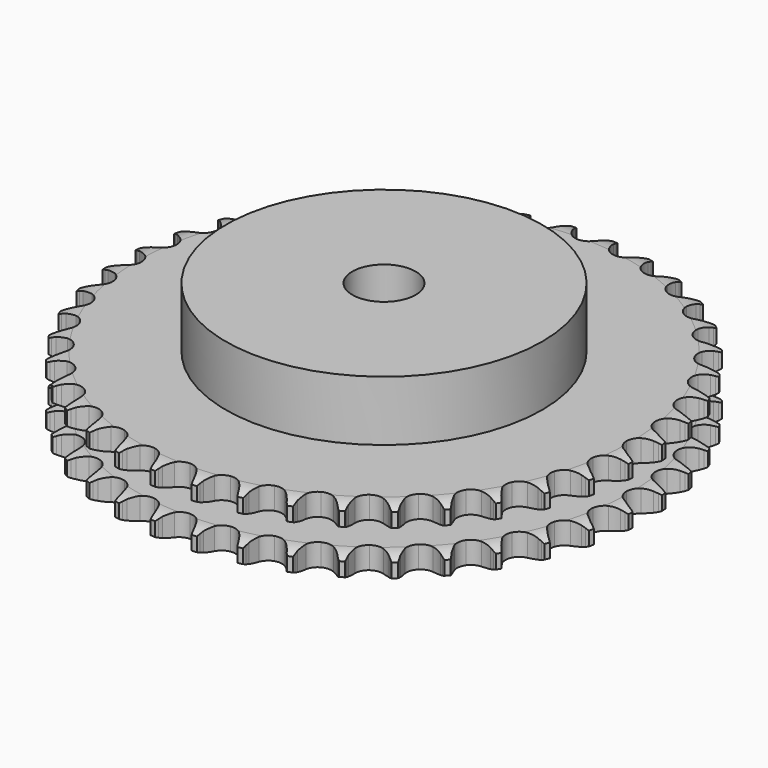
from build123d import *

# Parameters (mm, degrees)
PAD_DEPTH         = 21
SKETCH001_R       = 50
PAD001_DEPTH      = 40
SKETCH002_R       = 10
POCKET_DEPTH      = 0.001
POCKET_DEPTH_BACK = 40.001


with BuildPart() as part:
    # Sprocket → Pad (new body)
    with BuildSketch(Plane.XY):
        with BuildLine():
            ThreePointArc((-6.649012, 84.48371), (-5.927726, 83.470306), (-5.400458, 82.343705))
            Line((-5.400458, 82.343705), (-4.98558, 81.197617))
            ThreePointArc((-4.98558, 81.197617), (-4.32953, 79.727559), (-3.46814, 78.367604))
            ThreePointArc((-3.46814, 78.367604), (-1.941893, 77.081246), (0, 76.619517))
            ThreePointArc((0, 76.619517), (1.941893, 77.081246), (3.46814, 78.367604))
            ThreePointArc((3.46814, 78.367604), (4.32953, 79.727559), (4.98558, 81.197617))
            Line((4.98558, 81.197617), (5.400458, 82.343705))
            ThreePointArc((5.400458, 82.343705), (5.927726, 83.470306), (6.649012, 84.48371))
            ThreePointArc((6.649012, 84.48371), (7.202887, 83.369949), (7.547424, 82.174735))
            Line((7.547424, 82.174735), (7.777907, 80.977856))
            ThreePointArc((7.777907, 80.977856), (8.195912, 79.423268), (8.833953, 77.945305))
            ThreePointArc((8.833953, 77.945305), (10.140178, 76.436027), (11.985933, 75.676204))
            ThreePointArc((11.985933, 75.676204), (13.976149, 75.828469), (15.684836, 76.860232))
            Line((15.684836, 76.860232), (17.626305, 79.418023))
            ThreePointArc((17.626305, 79.418023), (17.906205, 79.959636), (18.215363, 80.4851))
            ThreePointArc((18.215363, 80.4851), (18.912379, 81.515347), (19.783316, 82.403441))
            ThreePointArc((19.783316, 82.403441), (20.15614, 81.216746), (20.309464, 79.98235))
            Line((20.309464, 79.98235), (20.349875, 78.764151))
            ThreePointArc((20.349875, 78.764151), (20.519543, 77.163313), (20.918524, 75.603734))
            ThreePointArc((20.918524, 75.603734), (21.972565, 73.9087), (23.676733, 72.869491))
            ThreePointArc((23.676733, 72.869491), (25.666265, 72.708543), (27.515318, 73.460306))
            Line((27.515318, 73.460306), (29.833012, 75.682894))
            ThreePointArc((29.833012, 75.682894), (30.194193, 76.174053), (30.581745, 76.644684))
            ThreePointArc((30.581745, 76.644684), (31.431346, 77.55321), (32.430489, 78.294125))
            ThreePointArc((32.430489, 78.294125), (32.613083, 77.063719), (32.571417, 75.820535))
            Line((32.571417, 75.820535), (32.420763, 74.611012))
            ThreePointArc((32.420763, 74.611012), (32.337915, 73.003341), (32.488012, 71.400549))
            ThreePointArc((32.488012, 71.400549), (33.263914, 69.561494), (34.784533, 68.26849))
            ThreePointArc((34.784533, 68.26849), (36.724393, 67.798292), (38.668283, 68.251544))
            Line((38.668283, 68.251544), (41.305131, 70.084201))
            ThreePointArc((41.305131, 70.084201), (41.7387, 70.512812), (42.195103, 70.917022))
            ThreePointArc((42.195103, 70.917022), (43.176369, 71.681456), (44.279115, 72.256949))
            ThreePointArc((44.279115, 72.256949), (44.266984, 71.013126), (44.031353, 69.791766))
            Line((44.031353, 69.791766), (43.693343, 68.620702))
            ThreePointArc((43.693343, 68.620702), (43.36002, 67.045784), (43.257538, 65.439245))
            ThreePointArc((43.257538, 65.439245), (43.736195, 63.501454), (45.035822, 61.986492))
            ThreePointArc((45.035822, 61.986492), (46.878245, 61.218622), (48.869106, 61.362202))
            Line((48.869106, 61.362202), (51.76018, 62.759802))
            ThreePointArc((51.76018, 62.759802), (52.255461, 63.115311), (52.769478, 63.443147))
            ThreePointArc((52.769478, 63.443147), (53.858246, 64.044666), (55.037443, 64.440566))
            ThreePointArc((55.037443, 64.440566), (54.830884, 63.213955), (54.407092, 62.044493))
            Line((54.407092, 62.044493), (53.890048, 60.940723))
            ThreePointArc((53.890048, 60.940723), (53.314458, 59.437338), (52.961919, 57.866609))
            ThreePointArc((52.961919, 57.866609), (53.131546, 55.877798), (54.17818, 54.17818))
            ThreePointArc((54.17818, 54.17818), (55.877798, 53.131546), (57.866609, 52.961919))
            Line((57.866609, 52.961919), (60.940723, 53.890048))
            ThreePointArc((60.940723, 53.890048), (61.48552, 54.163701), (62.044493, 54.407092))
            ThreePointArc((62.044493, 54.407092), (63.213955, 54.830884), (64.440566, 55.037443))
            ThreePointArc((64.440566, 55.037443), (64.044666, 53.858246), (63.443147, 52.769478))
            Line((63.443147, 52.769478), (62.759802, 51.76018))
            ThreePointArc((62.759802, 51.76018), (61.956116, 50.365347), (61.362202, 48.869106))
            ThreePointArc((61.362202, 48.869106), (61.218622, 46.878245), (61.986492, 45.035822))
            ThreePointArc((61.986492, 45.035822), (63.501454, 43.736195), (65.439245, 43.257538))
            Line((65.439245, 43.257538), (68.620702, 43.693343))
            ThreePointArc((68.620702, 43.693343), (69.2016, 43.878402), (69.791766, 44.031353))
            ThreePointArc((69.791766, 44.031353), (71.013126, 44.266984), (72.256949, 44.279115))
            ThreePointArc((72.256949, 44.279115), (71.681456, 43.176369), (70.917022, 42.195103))
            Line((70.917022, 42.195103), (70.084201, 41.305131))
            ThreePointArc((70.084201, 41.305131), (69.07221, 40.053194), (68.251544, 38.668283))
            ThreePointArc((68.251544, 38.668283), (67.798292, 36.724393), (68.26849, 34.784533))
            ThreePointArc((68.26849, 34.784533), (69.561494, 33.263914), (71.400549, 32.488012))
            Line((71.400549, 32.488012), (74.611012, 32.420763))
            ThreePointArc((74.611012, 32.420763), (75.213708, 32.512671), (75.820535, 32.571417))
            ThreePointArc((75.820535, 32.571417), (77.063719, 32.613083), (78.294125, 32.430489))
            ThreePointArc((78.294125, 32.430489), (77.55321, 31.431346), (76.644684, 30.581745))
            Line((76.644684, 30.581745), (75.682894, 29.833012))
            ThreePointArc((75.682894, 29.833012), (74.487516, 28.754798), (73.460306, 27.515318))
            ThreePointArc((73.460306, 27.515318), (72.708543, 25.666265), (72.869491, 23.676733))
            ThreePointArc((72.869491, 23.676733), (73.9087, 21.972565), (75.603734, 20.918524))
            Line((75.603734, 20.918524), (78.764151, 20.349875))
            ThreePointArc((78.764151, 20.349875), (79.373805, 20.346369), (79.98235, 20.309464))
            ThreePointArc((79.98235, 20.309464), (81.216746, 20.15614), (82.403441, 19.783316))
            ThreePointArc((82.403441, 19.783316), (81.515347, 18.912379), (80.4851, 18.215363))
            Line((80.4851, 18.215363), (79.418023, 17.626305))
            ThreePointArc((79.418023, 17.626305), (78.068693, 16.748364), (76.860232, 15.684836))
            ThreePointArc((76.860232, 15.684836), (75.828469, 13.976149), (75.676204, 11.985933))
            ThreePointArc((75.676204, 11.985933), (76.436027, 10.140178), (77.945305, 8.833953))
            Line((77.945305, 8.833953), (80.977856, 7.777907))
            ThreePointArc((80.977856, 7.777907), (81.579455, 7.679073), (82.174735, 7.547424))
            ThreePointArc((82.174735, 7.547424), (83.369949, 7.202887), (84.48371, 6.649012))
            ThreePointArc((84.48371, 6.649012), (83.470306, 5.927726), (82.343705, 5.400458))
            Line((82.343705, 5.400458), (81.197617, 4.98558))
            ThreePointArc((81.197617, 4.98558), (79.727559, 4.32953), (78.367604, 3.46814))
            ThreePointArc((78.367604, 3.46814), (77.081246, 1.941893), (76.619517, 0))
            ThreePointArc((76.619517, 0), (77.081246, -1.941893), (78.367604, -3.46814))
            Line((78.367604, -3.46814), (81.197617, -4.98558))
            ThreePointArc((81.197617, -4.98558), (81.776348, -5.177307), (82.343705, -5.400458))
            ThreePointArc((82.343705, -5.400458), (83.470306, -5.927726), (84.48371, -6.649012))
            ThreePointArc((84.48371, -6.649012), (83.369949, -7.202887), (82.174735, -7.547424))
            Line((82.174735, -7.547424), (80.977856, -7.777907))
            ThreePointArc((80.977856, -7.777907), (79.423268, -8.195912), (77.945305, -8.833953))
            ThreePointArc((77.945305, -8.833953), (76.436027, -10.140178), (75.676204, -11.985933))
            ThreePointArc((75.676204, -11.985933), (75.828469, -13.976149), (76.860232, -15.684836))
            Line((76.860232, -15.684836), (79.418023, -17.626305))
            ThreePointArc((79.418023, -17.626305), (79.959636, -17.906205), (80.4851, -18.215363))
            ThreePointArc((80.4851, -18.215363), (81.515347, -18.912379), (82.403441, -19.783316))
            ThreePointArc((82.403441, -19.783316), (81.216746, -20.15614), (79.98235, -20.309464))
            Line((79.98235, -20.309464), (78.764151, -20.349875))
            ThreePointArc((78.764151, -20.349875), (77.163313, -20.519543), (75.603734, -20.918524))
            ThreePointArc((75.603734, -20.918524), (73.9087, -21.972565), (72.869491, -23.676733))
            ThreePointArc((72.869491, -23.676733), (72.708543, -25.666265), (73.460306, -27.515318))
            Line((73.460306, -27.515318), (75.682894, -29.833012))
            ThreePointArc((75.682894, -29.833012), (76.174053, -30.194193), (76.644684, -30.581745))
            ThreePointArc((76.644684, -30.581745), (77.55321, -31.431346), (78.294125, -32.430489))
            ThreePointArc((78.294125, -32.430489), (77.063719, -32.613083), (75.820535, -32.571417))
            Line((75.820535, -32.571417), (74.611012, -32.420763))
            ThreePointArc((74.611012, -32.420763), (73.003341, -32.337915), (71.400549, -32.488012))
            ThreePointArc((71.400549, -32.488012), (69.561494, -33.263914), (68.26849, -34.784533))
            ThreePointArc((68.26849, -34.784533), (67.798292, -36.724393), (68.251544, -38.668283))
            Line((68.251544, -38.668283), (70.084201, -41.305131))
            ThreePointArc((70.084201, -41.305131), (70.512812, -41.7387), (70.917022, -42.195103))
            ThreePointArc((70.917022, -42.195103), (71.681456, -43.176369), (72.256949, -44.279115))
            ThreePointArc((72.256949, -44.279115), (71.013126, -44.266984), (69.791766, -44.031353))
            Line((69.791766, -44.031353), (68.620702, -43.693343))
            ThreePointArc((68.620702, -43.693343), (67.045784, -43.36002), (65.439245, -43.257538))
            ThreePointArc((65.439245, -43.257538), (63.501454, -43.736195), (61.986492, -45.035822))
            ThreePointArc((61.986492, -45.035822), (61.218622, -46.878245), (61.362202, -48.869106))
            Line((61.362202, -48.869106), (62.759802, -51.76018))
            ThreePointArc((62.759802, -51.76018), (63.115311, -52.255461), (63.443147, -52.769478))
            ThreePointArc((63.443147, -52.769478), (64.044666, -53.858246), (64.440566, -55.037443))
            ThreePointArc((64.440566, -55.037443), (63.213955, -54.830884), (62.044493, -54.407092))
            Line((62.044493, -54.407092), (60.940723, -53.890048))
            ThreePointArc((60.940723, -53.890048), (59.437338, -53.314458), (57.866609, -52.961919))
            ThreePointArc((57.866609, -52.961919), (55.877798, -53.131546), (54.17818, -54.17818))
            ThreePointArc((54.17818, -54.17818), (53.131546, -55.877798), (52.961919, -57.866609))
            Line((52.961919, -57.866609), (53.890048, -60.940723))
            ThreePointArc((53.890048, -60.940723), (54.163701, -61.48552), (54.407092, -62.044493))
            ThreePointArc((54.407092, -62.044493), (54.830884, -63.213955), (55.037443, -64.440566))
            ThreePointArc((55.037443, -64.440566), (53.858246, -64.044666), (52.769478, -63.443147))
            Line((52.769478, -63.443147), (51.76018, -62.759802))
            ThreePointArc((51.76018, -62.759802), (50.365347, -61.956116), (48.869106, -61.362202))
            ThreePointArc((48.869106, -61.362202), (46.878245, -61.218622), (45.035822, -61.986492))
            ThreePointArc((45.035822, -61.986492), (43.736195, -63.501454), (43.257538, -65.439245))
            Line((43.257538, -65.439245), (43.693343, -68.620702))
            ThreePointArc((43.693343, -68.620702), (43.878402, -69.2016), (44.031353, -69.791766))
            ThreePointArc((44.031353, -69.791766), (44.266984, -71.013126), (44.279115, -72.256949))
            ThreePointArc((44.279115, -72.256949), (43.176369, -71.681456), (42.195103, -70.917022))
            Line((42.195103, -70.917022), (41.305131, -70.084201))
            ThreePointArc((41.305131, -70.084201), (40.053194, -69.07221), (38.668283, -68.251544))
            ThreePointArc((38.668283, -68.251544), (36.724393, -67.798292), (34.784533, -68.26849))
            ThreePointArc((34.784533, -68.26849), (33.263914, -69.561494), (32.488012, -71.400549))
            Line((32.488012, -71.400549), (32.420763, -74.611012))
            ThreePointArc((32.420763, -74.611012), (32.512671, -75.213708), (32.571417, -75.820535))
            ThreePointArc((32.571417, -75.820535), (32.613083, -77.063719), (32.430489, -78.294125))
            ThreePointArc((32.430489, -78.294125), (31.431346, -77.55321), (30.581745, -76.644684))
            Line((30.581745, -76.644684), (29.833012, -75.682894))
            ThreePointArc((29.833012, -75.682894), (28.754798, -74.487516), (27.515318, -73.460306))
            ThreePointArc((27.515318, -73.460306), (25.666265, -72.708543), (23.676733, -72.869491))
            ThreePointArc((23.676733, -72.869491), (21.972565, -73.9087), (20.918524, -75.603734))
            Line((20.918524, -75.603734), (20.349875, -78.764151))
            ThreePointArc((20.349875, -78.764151), (20.346369, -79.373805), (20.309464, -79.98235))
            ThreePointArc((20.309464, -79.98235), (20.15614, -81.216746), (19.783316, -82.403441))
            ThreePointArc((19.783316, -82.403441), (18.912379, -81.515347), (18.215363, -80.4851))
            Line((18.215363, -80.4851), (17.626305, -79.418023))
            ThreePointArc((17.626305, -79.418023), (16.748364, -78.068693), (15.684836, -76.860232))
            ThreePointArc((15.684836, -76.860232), (13.976149, -75.828469), (11.985933, -75.676204))
            ThreePointArc((11.985933, -75.676204), (10.140178, -76.436027), (8.833953, -77.945305))
            Line((8.833953, -77.945305), (7.777907, -80.977856))
            ThreePointArc((7.777907, -80.977856), (7.679073, -81.579455), (7.547424, -82.174735))
            ThreePointArc((7.547424, -82.174735), (7.202887, -83.369949), (6.649012, -84.48371))
            ThreePointArc((6.649012, -84.48371), (5.927726, -83.470306), (5.400458, -82.343705))
            Line((5.400458, -82.343705), (4.98558, -81.197617))
            ThreePointArc((4.98558, -81.197617), (4.32953, -79.727559), (3.46814, -78.367604))
            ThreePointArc((3.46814, -78.367604), (1.941893, -77.081246), (0, -76.619517))
            ThreePointArc((0, -76.619517), (-1.941893, -77.081246), (-3.46814, -78.367604))
            Line((-3.46814, -78.367604), (-4.98558, -81.197617))
            ThreePointArc((-4.98558, -81.197617), (-5.177307, -81.776348), (-5.400458, -82.343705))
            ThreePointArc((-5.400458, -82.343705), (-5.927726, -83.470306), (-6.649012, -84.48371))
            ThreePointArc((-6.649012, -84.48371), (-7.202887, -83.369949), (-7.547424, -82.174735))
            Line((-7.547424, -82.174735), (-7.777907, -80.977856))
            ThreePointArc((-7.777907, -80.977856), (-8.195912, -79.423268), (-8.833953, -77.945305))
            ThreePointArc((-8.833953, -77.945305), (-10.140178, -76.436027), (-11.985933, -75.676204))
            ThreePointArc((-11.985933, -75.676204), (-13.976149, -75.828469), (-15.684836, -76.860232))
            Line((-15.684836, -76.860232), (-17.626305, -79.418023))
            ThreePointArc((-17.626305, -79.418023), (-17.906205, -79.959636), (-18.215363, -80.4851))
            ThreePointArc((-18.215363, -80.4851), (-18.912379, -81.515347), (-19.783316, -82.403441))
            ThreePointArc((-19.783316, -82.403441), (-20.15614, -81.216746), (-20.309464, -79.98235))
            Line((-20.309464, -79.98235), (-20.349875, -78.764151))
            ThreePointArc((-20.349875, -78.764151), (-20.519543, -77.163313), (-20.918524, -75.603734))
            ThreePointArc((-20.918524, -75.603734), (-21.972565, -73.9087), (-23.676733, -72.869491))
            ThreePointArc((-23.676733, -72.869491), (-25.666265, -72.708543), (-27.515318, -73.460306))
            Line((-27.515318, -73.460306), (-29.833012, -75.682894))
            ThreePointArc((-29.833012, -75.682894), (-30.194193, -76.174053), (-30.581745, -76.644684))
            ThreePointArc((-30.581745, -76.644684), (-31.431346, -77.55321), (-32.430489, -78.294125))
            ThreePointArc((-32.430489, -78.294125), (-32.613083, -77.063719), (-32.571417, -75.820535))
            Line((-32.571417, -75.820535), (-32.420763, -74.611012))
            ThreePointArc((-32.420763, -74.611012), (-32.337915, -73.003341), (-32.488012, -71.400549))
            ThreePointArc((-32.488012, -71.400549), (-33.263914, -69.561494), (-34.784533, -68.26849))
            ThreePointArc((-34.784533, -68.26849), (-36.724393, -67.798292), (-38.668283, -68.251544))
            Line((-38.668283, -68.251544), (-41.305131, -70.084201))
            ThreePointArc((-41.305131, -70.084201), (-41.7387, -70.512812), (-42.195103, -70.917022))
            ThreePointArc((-42.195103, -70.917022), (-43.176369, -71.681456), (-44.279115, -72.256949))
            ThreePointArc((-44.279115, -72.256949), (-44.266984, -71.013126), (-44.031353, -69.791766))
            Line((-44.031353, -69.791766), (-43.693343, -68.620702))
            ThreePointArc((-43.693343, -68.620702), (-43.36002, -67.045784), (-43.257538, -65.439245))
            ThreePointArc((-43.257538, -65.439245), (-43.736195, -63.501454), (-45.035822, -61.986492))
            ThreePointArc((-45.035822, -61.986492), (-46.878245, -61.218622), (-48.869106, -61.362202))
            Line((-48.869106, -61.362202), (-51.76018, -62.759802))
            ThreePointArc((-51.76018, -62.759802), (-52.255461, -63.115311), (-52.769478, -63.443147))
            ThreePointArc((-52.769478, -63.443147), (-53.858246, -64.044666), (-55.037443, -64.440566))
            ThreePointArc((-55.037443, -64.440566), (-54.830884, -63.213955), (-54.407092, -62.044493))
            Line((-54.407092, -62.044493), (-53.890048, -60.940723))
            ThreePointArc((-53.890048, -60.940723), (-53.314458, -59.437338), (-52.961919, -57.866609))
            ThreePointArc((-52.961919, -57.866609), (-53.131546, -55.877798), (-54.17818, -54.17818))
            ThreePointArc((-54.17818, -54.17818), (-55.877798, -53.131546), (-57.866609, -52.961919))
            Line((-57.866609, -52.961919), (-60.940723, -53.890048))
            ThreePointArc((-60.940723, -53.890048), (-61.48552, -54.163701), (-62.044493, -54.407092))
            ThreePointArc((-62.044493, -54.407092), (-63.213955, -54.830884), (-64.440566, -55.037443))
            ThreePointArc((-64.440566, -55.037443), (-64.044666, -53.858246), (-63.443147, -52.769478))
            Line((-63.443147, -52.769478), (-62.759802, -51.76018))
            ThreePointArc((-62.759802, -51.76018), (-61.956116, -50.365347), (-61.362202, -48.869106))
            ThreePointArc((-61.362202, -48.869106), (-61.218622, -46.878245), (-61.986492, -45.035822))
            ThreePointArc((-61.986492, -45.035822), (-63.501454, -43.736195), (-65.439245, -43.257538))
            Line((-65.439245, -43.257538), (-68.620702, -43.693343))
            ThreePointArc((-68.620702, -43.693343), (-69.2016, -43.878402), (-69.791766, -44.031353))
            ThreePointArc((-69.791766, -44.031353), (-71.013126, -44.266984), (-72.256949, -44.279115))
            ThreePointArc((-72.256949, -44.279115), (-71.681456, -43.176369), (-70.917022, -42.195103))
            Line((-70.917022, -42.195103), (-70.084201, -41.305131))
            ThreePointArc((-70.084201, -41.305131), (-69.07221, -40.053194), (-68.251544, -38.668283))
            ThreePointArc((-68.251544, -38.668283), (-67.798292, -36.724393), (-68.26849, -34.784533))
            ThreePointArc((-68.26849, -34.784533), (-69.561494, -33.263914), (-71.400549, -32.488012))
            Line((-71.400549, -32.488012), (-74.611012, -32.420763))
            ThreePointArc((-74.611012, -32.420763), (-75.213708, -32.512671), (-75.820535, -32.571417))
            ThreePointArc((-75.820535, -32.571417), (-77.063719, -32.613083), (-78.294125, -32.430489))
            ThreePointArc((-78.294125, -32.430489), (-77.55321, -31.431346), (-76.644684, -30.581745))
            Line((-76.644684, -30.581745), (-75.682894, -29.833012))
            ThreePointArc((-75.682894, -29.833012), (-74.487516, -28.754798), (-73.460306, -27.515318))
            ThreePointArc((-73.460306, -27.515318), (-72.708543, -25.666265), (-72.869491, -23.676733))
            ThreePointArc((-72.869491, -23.676733), (-73.9087, -21.972565), (-75.603734, -20.918524))
            Line((-75.603734, -20.918524), (-78.764151, -20.349875))
            ThreePointArc((-78.764151, -20.349875), (-79.373805, -20.346369), (-79.98235, -20.309464))
            ThreePointArc((-79.98235, -20.309464), (-81.216746, -20.15614), (-82.403441, -19.783316))
            ThreePointArc((-82.403441, -19.783316), (-81.515347, -18.912379), (-80.4851, -18.215363))
            Line((-80.4851, -18.215363), (-79.418023, -17.626305))
            ThreePointArc((-79.418023, -17.626305), (-78.068693, -16.748364), (-76.860232, -15.684836))
            ThreePointArc((-76.860232, -15.684836), (-75.828469, -13.976149), (-75.676204, -11.985933))
            ThreePointArc((-75.676204, -11.985933), (-76.436027, -10.140178), (-77.945305, -8.833953))
            Line((-77.945305, -8.833953), (-80.977856, -7.777907))
            ThreePointArc((-80.977856, -7.777907), (-81.579455, -7.679073), (-82.174735, -7.547424))
            ThreePointArc((-82.174735, -7.547424), (-83.369949, -7.202887), (-84.48371, -6.649012))
            ThreePointArc((-84.48371, -6.649012), (-83.470306, -5.927726), (-82.343705, -5.400458))
            Line((-82.343705, -5.400458), (-81.197617, -4.98558))
            ThreePointArc((-81.197617, -4.98558), (-79.727559, -4.32953), (-78.367604, -3.46814))
            ThreePointArc((-78.367604, -3.46814), (-77.081246, -1.941893), (-76.619517, 0))
            ThreePointArc((-76.619517, 0), (-77.081246, 1.941893), (-78.367604, 3.46814))
            Line((-78.367604, 3.46814), (-81.197617, 4.98558))
            ThreePointArc((-81.197617, 4.98558), (-81.776348, 5.177307), (-82.343705, 5.400458))
            ThreePointArc((-82.343705, 5.400458), (-83.470306, 5.927726), (-84.48371, 6.649012))
            ThreePointArc((-84.48371, 6.649012), (-83.369949, 7.202887), (-82.174735, 7.547424))
            Line((-82.174735, 7.547424), (-80.977856, 7.777907))
            ThreePointArc((-80.977856, 7.777907), (-79.423268, 8.195912), (-77.945305, 8.833953))
            ThreePointArc((-77.945305, 8.833953), (-76.436027, 10.140178), (-75.676204, 11.985933))
            ThreePointArc((-75.676204, 11.985933), (-75.828469, 13.976149), (-76.860232, 15.684836))
            Line((-76.860232, 15.684836), (-79.418023, 17.626305))
            ThreePointArc((-79.418023, 17.626305), (-79.959636, 17.906205), (-80.4851, 18.215363))
            ThreePointArc((-80.4851, 18.215363), (-81.515347, 18.912379), (-82.403441, 19.783316))
            ThreePointArc((-82.403441, 19.783316), (-81.216746, 20.15614), (-79.98235, 20.309464))
            Line((-79.98235, 20.309464), (-78.764151, 20.349875))
            ThreePointArc((-78.764151, 20.349875), (-77.163313, 20.519543), (-75.603734, 20.918524))
            ThreePointArc((-75.603734, 20.918524), (-73.9087, 21.972565), (-72.869491, 23.676733))
            ThreePointArc((-72.869491, 23.676733), (-72.708543, 25.666265), (-73.460306, 27.515318))
            Line((-73.460306, 27.515318), (-75.682894, 29.833012))
            ThreePointArc((-75.682894, 29.833012), (-76.174053, 30.194193), (-76.644684, 30.581745))
            ThreePointArc((-76.644684, 30.581745), (-77.55321, 31.431346), (-78.294125, 32.430489))
            ThreePointArc((-78.294125, 32.430489), (-77.063719, 32.613083), (-75.820535, 32.571417))
            Line((-75.820535, 32.571417), (-74.611012, 32.420763))
            ThreePointArc((-74.611012, 32.420763), (-73.003341, 32.337915), (-71.400549, 32.488012))
            ThreePointArc((-71.400549, 32.488012), (-69.561494, 33.263914), (-68.26849, 34.784533))
            ThreePointArc((-68.26849, 34.784533), (-67.798292, 36.724393), (-68.251544, 38.668283))
            Line((-68.251544, 38.668283), (-70.084201, 41.305131))
            ThreePointArc((-70.084201, 41.305131), (-70.512812, 41.7387), (-70.917022, 42.195103))
            ThreePointArc((-70.917022, 42.195103), (-71.681456, 43.176369), (-72.256949, 44.279115))
            ThreePointArc((-72.256949, 44.279115), (-71.013126, 44.266984), (-69.791766, 44.031353))
            Line((-69.791766, 44.031353), (-68.620702, 43.693343))
            ThreePointArc((-68.620702, 43.693343), (-67.045784, 43.36002), (-65.439245, 43.257538))
            ThreePointArc((-65.439245, 43.257538), (-63.501454, 43.736195), (-61.986492, 45.035822))
            ThreePointArc((-61.986492, 45.035822), (-61.218622, 46.878245), (-61.362202, 48.869106))
            Line((-61.362202, 48.869106), (-62.759802, 51.76018))
            ThreePointArc((-62.759802, 51.76018), (-63.115311, 52.255461), (-63.443147, 52.769478))
            ThreePointArc((-63.443147, 52.769478), (-64.044666, 53.858246), (-64.440566, 55.037443))
            ThreePointArc((-64.440566, 55.037443), (-63.213955, 54.830884), (-62.044493, 54.407092))
            Line((-62.044493, 54.407092), (-60.940723, 53.890048))
            ThreePointArc((-60.940723, 53.890048), (-59.437338, 53.314458), (-57.866609, 52.961919))
            ThreePointArc((-57.866609, 52.961919), (-55.877798, 53.131546), (-54.17818, 54.17818))
            ThreePointArc((-54.17818, 54.17818), (-53.131546, 55.877798), (-52.961919, 57.866609))
            Line((-52.961919, 57.866609), (-53.890048, 60.940723))
            ThreePointArc((-53.890048, 60.940723), (-54.163701, 61.48552), (-54.407092, 62.044493))
            ThreePointArc((-54.407092, 62.044493), (-54.830884, 63.213955), (-55.037443, 64.440566))
            ThreePointArc((-55.037443, 64.440566), (-53.858246, 64.044666), (-52.769478, 63.443147))
            Line((-52.769478, 63.443147), (-51.76018, 62.759802))
            ThreePointArc((-51.76018, 62.759802), (-50.365347, 61.956116), (-48.869106, 61.362202))
            ThreePointArc((-48.869106, 61.362202), (-46.878245, 61.218622), (-45.035822, 61.986492))
            ThreePointArc((-45.035822, 61.986492), (-43.736195, 63.501454), (-43.257538, 65.439245))
            Line((-43.257538, 65.439245), (-43.693343, 68.620702))
            ThreePointArc((-43.693343, 68.620702), (-43.878402, 69.2016), (-44.031353, 69.791766))
            ThreePointArc((-44.031353, 69.791766), (-44.266984, 71.013126), (-44.279115, 72.256949))
            ThreePointArc((-44.279115, 72.256949), (-43.176369, 71.681456), (-42.195103, 70.917022))
            Line((-42.195103, 70.917022), (-41.305131, 70.084201))
            ThreePointArc((-41.305131, 70.084201), (-40.053194, 69.07221), (-38.668283, 68.251544))
            ThreePointArc((-38.668283, 68.251544), (-36.724393, 67.798292), (-34.784533, 68.26849))
            ThreePointArc((-34.784533, 68.26849), (-33.263914, 69.561494), (-32.488012, 71.400549))
            Line((-32.488012, 71.400549), (-32.420763, 74.611012))
            ThreePointArc((-32.420763, 74.611012), (-32.512671, 75.213708), (-32.571417, 75.820535))
            ThreePointArc((-32.571417, 75.820535), (-32.613083, 77.063719), (-32.430489, 78.294125))
            ThreePointArc((-32.430489, 78.294125), (-31.431346, 77.55321), (-30.581745, 76.644684))
            Line((-30.581745, 76.644684), (-29.833012, 75.682894))
            ThreePointArc((-29.833012, 75.682894), (-28.754798, 74.487516), (-27.515318, 73.460306))
            ThreePointArc((-27.515318, 73.460306), (-25.666265, 72.708543), (-23.676733, 72.869491))
            ThreePointArc((-23.676733, 72.869491), (-21.972565, 73.9087), (-20.918524, 75.603734))
            Line((-20.918524, 75.603734), (-20.349875, 78.764151))
            ThreePointArc((-20.349875, 78.764151), (-20.346369, 79.373805), (-20.309464, 79.98235))
            ThreePointArc((-20.309464, 79.98235), (-20.15614, 81.216746), (-19.783316, 82.403441))
            ThreePointArc((-19.783316, 82.403441), (-18.912379, 81.515347), (-18.215363, 80.4851))
            Line((-18.215363, 80.4851), (-17.626305, 79.418023))
            ThreePointArc((-17.626305, 79.418023), (-16.748364, 78.068693), (-15.684836, 76.860232))
            ThreePointArc((-15.684836, 76.860232), (-13.976149, 75.828469), (-11.985933, 75.676204))
            ThreePointArc((-11.985933, 75.676204), (-10.140178, 76.436027), (-8.833953, 77.945305))
            Line((-8.833953, 77.945305), (-7.777907, 80.977856))
            ThreePointArc((-7.777907, 80.977856), (-7.679073, 81.579455), (-7.547424, 82.174735))
            ThreePointArc((-7.547424, 82.174735), (-7.202887, 83.369949), (-6.649012, 84.48371))
        make_face()
    extrude(amount=PAD_DEPTH)

    # Sketch → Groove (revolve, cut)
    with BuildSketch(Plane.XZ):
        with BuildLine():
            ThreePointArc((77.733431, 0), (80.64032, 0.329167), (83.4, 1.3))
            Line((83.4, 1.3), (83.4, 5.7))
            ThreePointArc((83.4, 5.7), (80.64032, 6.670833), (77.733431, 7))
            Line((50, 7), (77.733431, 7))
            Line((50, 14), (50, 7))
            Line((77.733431, 14), (50, 14))
            ThreePointArc((77.733431, 14), (80.64032, 14.329167), (83.4, 15.3))
            Line((83.4, 15.3), (83.4, 19.7))
            ThreePointArc((83.4, 19.7), (80.64032, 20.670833), (77.733431, 21))
            Line((77.733431, 21), (87.733431, 21))
            Line((87.733431, 21), (87.733431, 0))
            Line((77.733431, 0), (87.733431, 0))
        make_face()
    revolve(axis=Axis((0, 0, 0), (0, 0, 1)), mode=Mode.SUBTRACT)

    # Sketch001 → Pad001 (join)
    with BuildSketch(Plane.XY):
        Circle(SKETCH001_R)
    extrude(amount=PAD001_DEPTH)

    # Sketch002 → Pocket (cut, two sides)
    with BuildSketch(Plane.XY) as pocket_sk:
        Circle(SKETCH002_R)
    extrude(amount=-POCKET_DEPTH, mode=Mode.SUBTRACT)
    extrude(pocket_sk.sketch, amount=POCKET_DEPTH_BACK, mode=Mode.SUBTRACT)


solid = part.part
